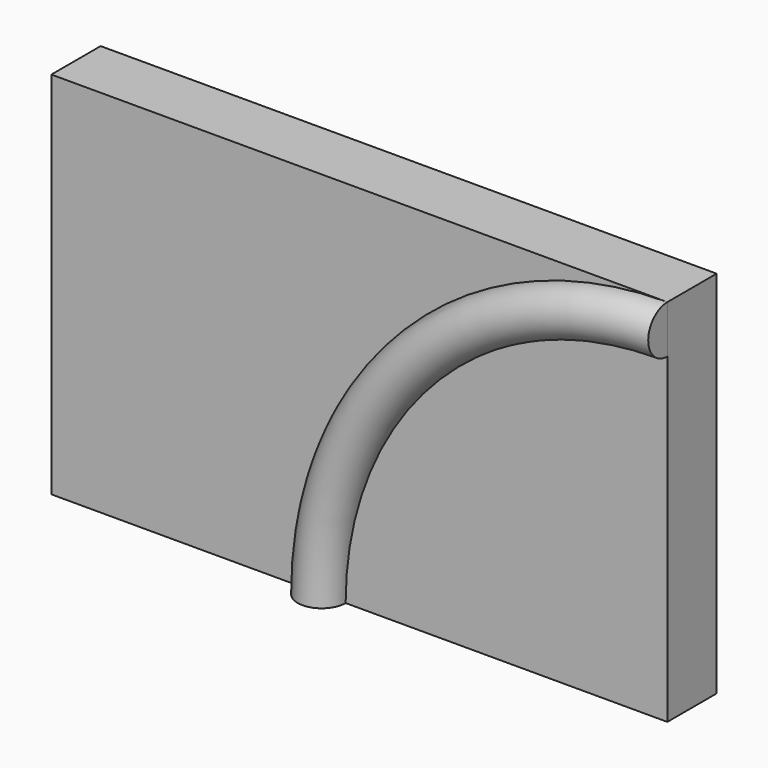
from build123d import *

# Parameters (mm, degrees)
F0_W     = 127
F0_H     = 76.2
F1_DEPTH = 12.7


with BuildPart() as f1:
    # F0 (on Front) → F1 (new body)
    with BuildSketch(Plane.XZ):
        Rectangle(F0_W, F0_H)
    extrude(amount=F1_DEPTH)

    # F4: sweep along a path in F2
    with BuildLine(Plane.XZ.offset(12.7)) as f4_path:
        ThreePointArc((63.5, 33.02), (13.210566, 12.189434), (-7.62, -38.1))
    # F3 (on face) → F4 (sweep)
    with BuildSketch(Plane.YZ.offset(63.5)):
        with BuildLine():
            Line((-12.7, 28.230165), (-12.7, 38.1))
            ThreePointArc((-12.7, 38.1), (-17.634918, 33.165082), (-12.7, 28.230165))
        make_face()
    sweep(path=f4_path.line)


solid = f1.part
